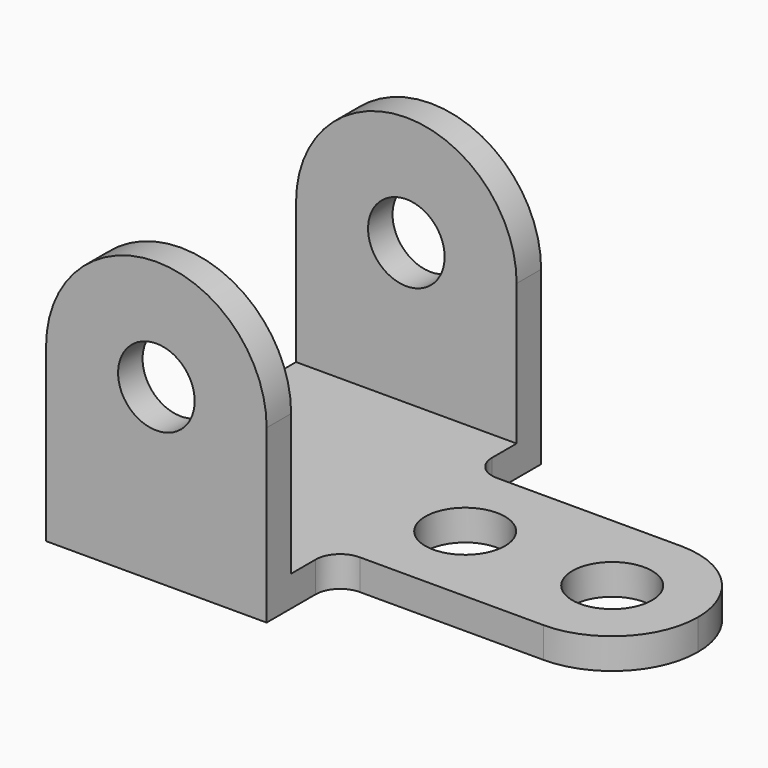
from build123d import *

# Parameters (mm, degrees)
F0_R     = 9.92251
F0_W     = 76.2
F0_H     = 7.9375
F1_DEPTH = 88.9
F2_W     = 73.025
F2_H     = 65.0875
F3_DEPTH = 63.5
F4_R     = 10.3251
F5_DEPTH = 25.4


with BuildPart() as f1:
    # F0 (on Front) → F1 (new body)
    with BuildSketch(Plane.XZ):
        with BuildLine():
            ThreePointArc((57.15, 44.45), (28.575, 73.025), (0, 44.45))
            Line((0, 44.45), (0, 0))
            Line((0, 0), (57.15, 0))
            Line((57.15, 0), (57.15, 7.9375))
            Line((57.15, 7.9375), (57.15, 44.45))
        make_face()
        with Locations((28.575, 44.45)):
            Circle(F0_R, mode=Mode.SUBTRACT)
        with Locations((95.25, 3.96875)):
            Rectangle(F0_W, F0_H)
    extrude(amount=F1_DEPTH)

    # F2 (on Right) → F3 (cut)
    with BuildSketch(Plane.YZ):
        with Locations((-44.45, 40.48125)):
            Rectangle(F2_W, F2_H)
    extrude(amount=F3_DEPTH, mode=Mode.SUBTRACT)

    # F4 (on Top) → F5 (cut)
    with BuildSketch(Plane.XY):
        with Locations((73.025, -44.45)):
            Circle(F4_R)
        with Locations((111.125, -44.45)):
            Circle(F4_R)
        with BuildLine():
            Line((57.15, -88.9), (133.35, -88.9))
            Line((133.35, -88.9), (133.35, -44.45))
            ThreePointArc((133.35, -44.45), (126.840448, -60.165448), (111.125, -66.675))
            Line((111.125, -66.675), (63.5, -66.675))
            ThreePointArc((63.5, -66.675), (59.009872, -68.534872), (57.15, -73.025))
            Line((57.15, -73.025), (57.15, -88.9))
        make_face()
        with BuildLine():
            ThreePointArc((111.125, -22.225), (126.840448, -28.734552), (133.35, -44.45))
            Line((133.35, -44.45), (133.35, 0))
            Line((133.35, 0), (57.15, 0))
            Line((57.15, 0), (57.15, -15.875))
            ThreePointArc((57.15, -15.875), (59.009872, -20.365128), (63.5, -22.225))
            Line((63.5, -22.225), (111.125, -22.225))
        make_face()
    extrude(amount=F5_DEPTH, mode=Mode.SUBTRACT)


solid = f1.part
